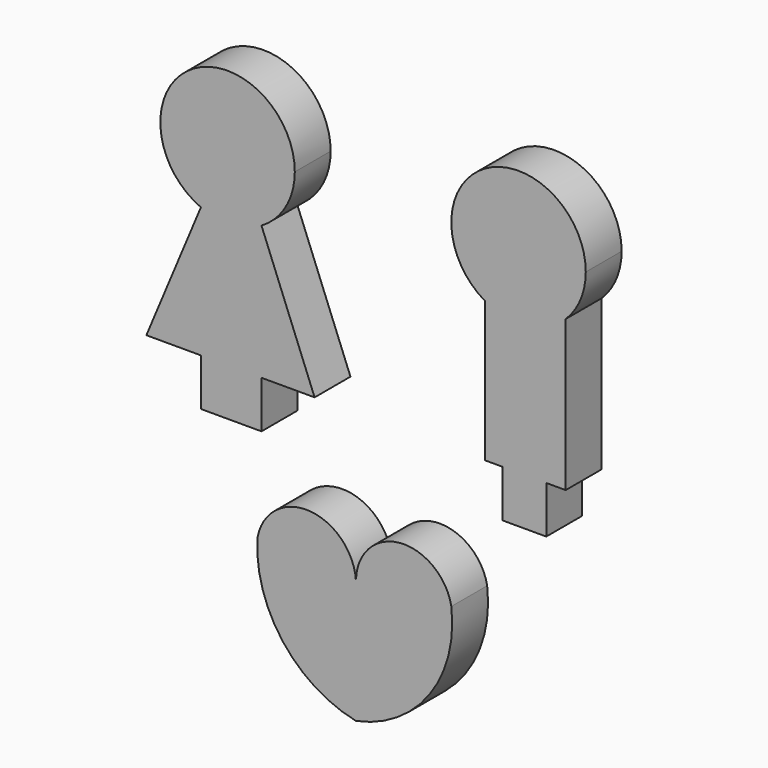
from build123d import *

# Parameters (mm, degrees)
F0_W     = 7.555295
F0_H     = 13.37597
F0_W_2   = 9.605061
F0_W_3   = 6.233234
F0_W_4   = 6.233233
F1_DEPTH = 12.7


with BuildPart() as f1:
    # F0 (on Front) → F1 (new body)
    with BuildSketch(Plane.XZ):
        with BuildLine():
            ThreePointArc((-26.777137, 37.967833), (-19.861319, 44.934249), (-17.332198, 54.419134))
            ThreePointArc((-17.332198, 54.419134), (-46.845805, 70.338161), (-43.937493, 36.931423))
            ThreePointArc((-43.937493, 36.931423), (-35.233755, 35.403783), (-26.777137, 37.967833))
        make_face()
        with BuildLine():
            ThreePointArc((-26.777137, 37.967833), (-35.233755, 35.403783), (-43.937493, 36.931423))
            Line((-43.937493, 36.931423), (-59.388716, 0))
            Line((-59.388716, 0), (-43.937493, 0))
            Line((-43.937493, 0), (-36.382198, 0))
            Line((-36.382198, 0), (-26.777137, 0))
            Line((-26.777137, 0), (-11.722821, 0))
            Line((-11.722821, 0), (-26.777137, 37.967833))
        make_face()
        with Locations((-40.159845, -6.687985)):
            Rectangle(F0_W, F0_H)
        with Locations((-31.579667, -6.687985)):
            Rectangle(F0_W_2, F0_H)
        with BuildLine():
            ThreePointArc((27.014024, -39.540765), (12.379672, -28.447665), (0, -42.01103))
            ThreePointArc((0, -42.01103), (-13.191731, -28.791202), (-27.918863, -40.275853))
            ThreePointArc((-27.918863, -40.275853), (-20.769462, -63.776077), (0, -76.891102))
            ThreePointArc((0, -76.891102), (20.824373, -63.508292), (27.014024, -39.540765))
        make_face()
        with BuildLine():
            ThreePointArc((59.405235, 42.671166), (63.621476, 48.892036), (65.103784, 56.259443))
            ThreePointArc((65.103784, 56.259443), (36.544122, 72.766073), (36.498132, 39.779394))
            ThreePointArc((36.498132, 39.779394), (48.439703, 37.359446), (59.405235, 42.671166))
        make_face()
        with BuildLine():
            ThreePointArc((59.405235, 42.671166), (48.439703, 37.359446), (36.498132, 39.779394))
            Line((36.498132, 39.779394), (36.498132, 0))
            Line((36.498132, 0), (41.442987, 0))
            Line((41.442987, 0), (47.676221, 0))
            Line((47.676221, 0), (53.909454, 0))
            Line((53.909454, 0), (59.405235, 0))
            Line((59.405235, 0), (59.405235, 42.671166))
        make_face()
        with Locations((44.559604, -6.687985)):
            Rectangle(F0_W_3, F0_H)
        with Locations((50.792837, -6.687985)):
            Rectangle(F0_W_4, F0_H)
    extrude(amount=F1_DEPTH)


solid = f1.part
